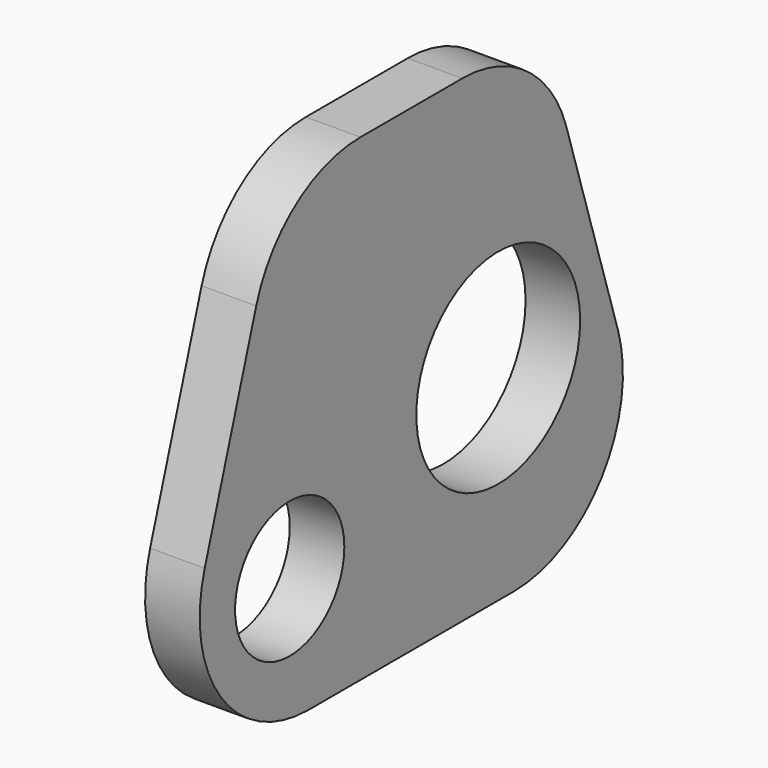
from build123d import *

# Parameters (mm, degrees)
F1_DEPTH      = 5.08
F1_DEPTH_BACK = 5.08
F2_R          = 25.4
F3_R          = 19.05
F4_DEPTH      = 25.4
F5_R          = 12.7
F6_DEPTH      = 25.4


with BuildPart() as f1:
    # F0 (on Right) → F1 (new body, two sides)
    with BuildSketch(Plane.YZ) as f1_sk:
        Polygon((30.48, 50.8), (-30.48, 50.8), (-58.42, -38.1), (58.42, -38.1), align=None)
    extrude(amount=F1_DEPTH)
    extrude(f1_sk.sketch, amount=-F1_DEPTH_BACK)

    # F2
    f2_edges = [f1.edges().sort_by_distance(p)[0] for p in [
        (0, -30.48, 50.8),
        (0, -58.42, -38.1),
        (0, 30.48, 50.8),
        (0, 58.42, -38.1),
    ]]
    fillet(f2_edges, radius=F2_R)

    # F3 (on face) → F4 (cut)
    with BuildSketch(Plane.YZ.offset(5.08)):
        with Locations((20.219197, 0)):
            Circle(F3_R)
    extrude(amount=-F4_DEPTH, mode=Mode.SUBTRACT)

    # F5 (on face) → F6 (cut)
    with BuildSketch(Plane.YZ.offset(5.08)):
        with Locations((-28.277963, -14.804346)):
            Circle(F5_R)
    extrude(amount=-F6_DEPTH, mode=Mode.SUBTRACT)


solid = f1.part
